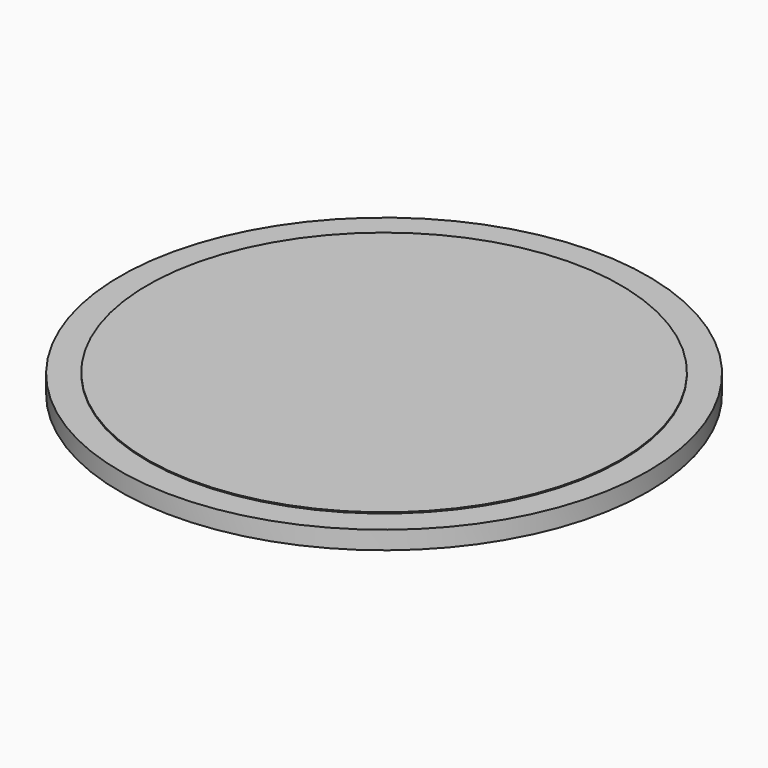
from build123d import *


with BuildPart() as f1:
    # F0 (on Front) → F1 (revolve)
    with BuildSketch(Plane.XZ):
        with BuildLine():
            Line((22.1780724823, 0), (0, 0))
            Line((0, 0), (0, -1.8))
            Line((0, -1.8), (2.9477034695, -1.8))
            Line((2.9477034695, -1.8), (3.77, -7.8))
            Line((3.77, -7.8), (4.1418569162, -7.8))
            Line((4.1418569162, -7.8), (4.9383593723, -6.9958153181))
            Line((4.9383593723, -6.9958153181), (4.9383593723, -7.8))
            Line((4.9383593723, -7.8), (5.8062141761, -6.9958153181))
            Line((5.8062141761, -6.9958153181), (5.8062141761, -7.8))
            Line((5.8062141761, -7.8), (6.5475506708, -6.9958153181))
            Line((6.5475506708, -6.9958153181), (7.1071940474, -7.8))
            Line((7.1071940474, -7.8), (10.155, -7.8))
            add(Edge.make_bspline(
                [(10.155, -7.8), (12.8875457393, -6.6985920118), (16.5135470556, -5.2238716882), (20.9377328626, -2.6968105647), (22.2, -1.8)],
                knots=[0, 0, 0, 0, 0.5227412825, 1, 1, 1, 1], degree=3))
            Line((22.2, -1.8), (24.75, -1.8))
            Line((24.75, -1.8), (24.75, -0.1024712838))
            Line((24.75, -0.1024712838), (22.1780724823, -0.1024712838))
            Line((22.1780724823, -0.1024712838), (22.1780724823, 0))
        make_face()
    revolve(axis=Axis((0, 0, -0.9), (0, 0, -1)))


solid = f1.part
